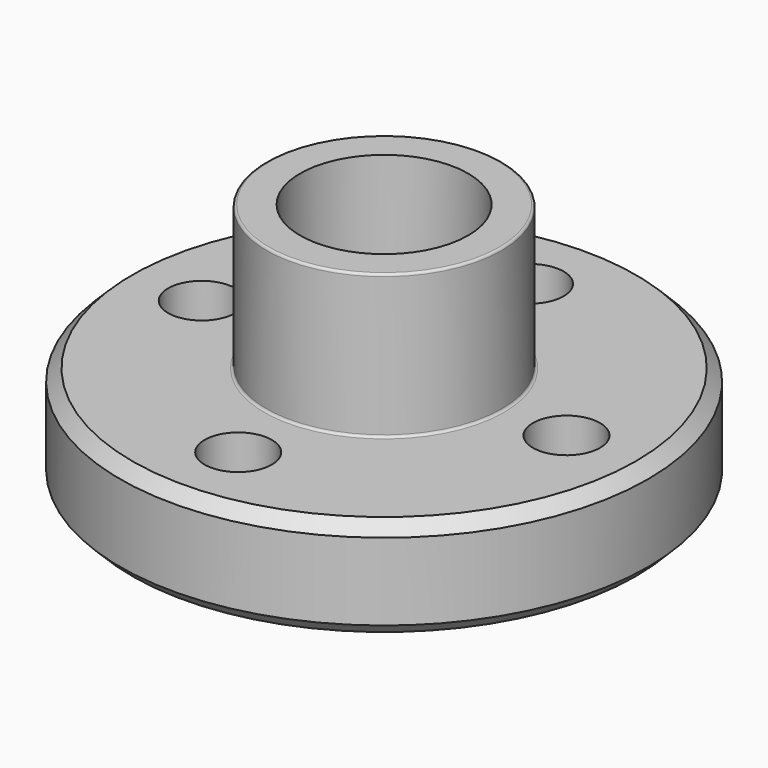
from build123d import *

# Parameters (mm, degrees)
F0_R          = 11
F0_R_2        = 1.4
F0_R_3        = 4.9
F0_R_4        = 3.5
F1_DEPTH      = 4.22
F2_DEPTH      = 5.4
F2_DEPTH_BACK = 6
F3_SIZE       = 0.5
F4_R          = 0.1


with BuildPart() as f1:
    # F0 (on Top) → F1 (new body)
    with BuildSketch(Plane.XY):
        Circle(F0_R)
        with Locations((0, -7.6)):
            Circle(F0_R_2, mode=Mode.SUBTRACT)
        with Locations((-7.6, 0)):
            Circle(F0_R_2, mode=Mode.SUBTRACT)
        Circle(F0_R_3, mode=Mode.SUBTRACT)
        with Locations((7.6, 0)):
            Circle(F0_R_2, mode=Mode.SUBTRACT)
        with Locations((0, 7.6)):
            Circle(F0_R_2, mode=Mode.SUBTRACT)
        Circle(F0_R_3)
        Circle(F0_R_4, mode=Mode.SUBTRACT)
    extrude(amount=-F1_DEPTH)

    # F0 (on Top) → F2 (join, two sides)
    with BuildSketch(Plane.XY) as f2_sk:
        Circle(F0_R_3)
        Circle(F0_R_4, mode=Mode.SUBTRACT)
    extrude(amount=-F2_DEPTH)
    extrude(f2_sk.sketch, amount=F2_DEPTH_BACK)

    # F3
    f3_edges = [f1.edges().sort_by_distance(p)[0] for p in [
        (-11, 0, 0),
        (-11, 0, -4.22),
    ]]
    chamfer(f3_edges, length=F3_SIZE)

    # F4
    f4_edges = [f1.edges().sort_by_distance(p)[0] for p in [
        (-4.9, 0, 0),
        (-4.9, 0, 6),
        (-4.9, 0, -4.22),
        (-4.9, 0, -5.4),
    ]]
    fillet(f4_edges, radius=F4_R)


solid = f1.part
